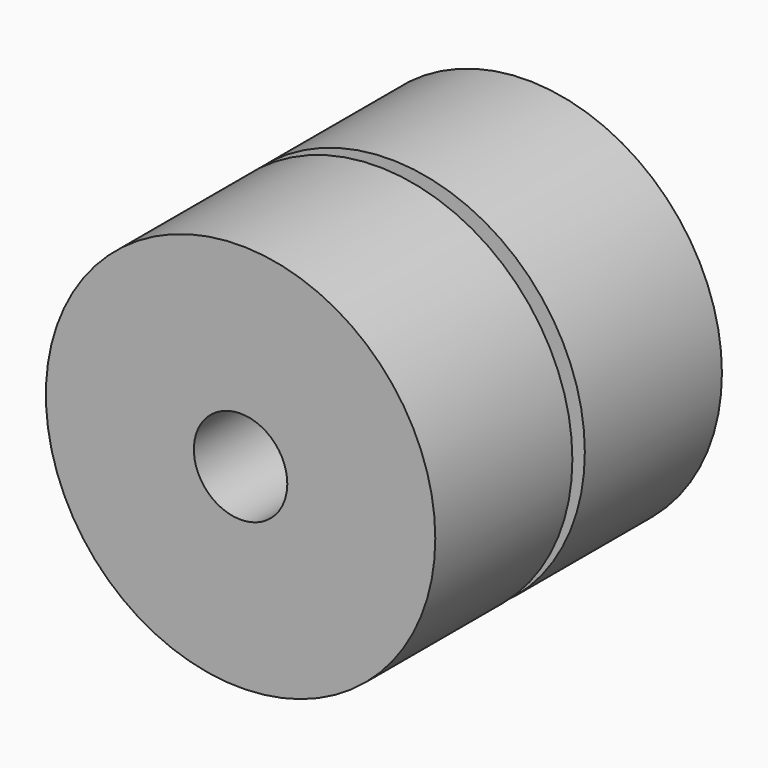
from build123d import *

# Parameters (mm, degrees)
F0_R          = 25
F0_R_2        = 6
F1_DEPTH      = 22
F1_DEPTH_BACK = 24
F2_DEPTH      = 2


with BuildPart() as f1:
    # F0 (on Front) → F1 (new body, two sides)
    with BuildSketch(Plane.XZ) as f1_sk:
        Circle(F0_R)
        Circle(F0_R_2, mode=Mode.SUBTRACT)
    extrude(amount=F1_DEPTH)
    extrude(f1_sk.sketch, amount=-F1_DEPTH_BACK)

    # F0 (on Front) → F2 (cut)
    with BuildSketch(Plane.XZ):
        Circle(F0_R)
        Circle(F0_R_2, mode=Mode.SUBTRACT)
    extrude(amount=-F2_DEPTH, mode=Mode.SUBTRACT)


solid = f1.part
